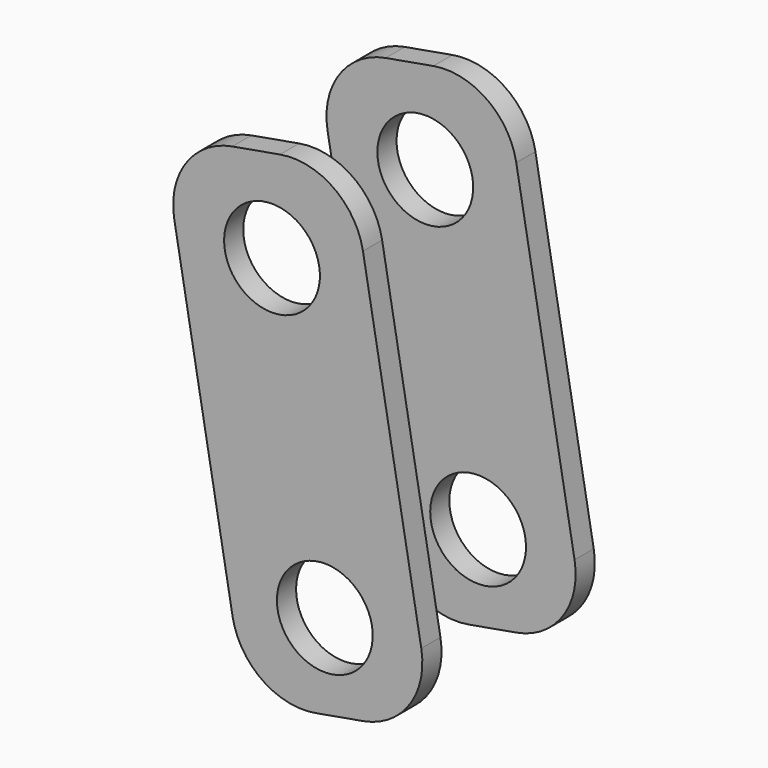
from build123d import *

# Parameters (mm, degrees)
CYLINDER661_R          = 2
CYLINDER661_DEPTH      = 10
CYLINDER661_ROLL_ANGLE = 90
CYLINDER660_R          = 2
CYLINDER660_DEPTH      = 10
CYLINDER660_ROLL_ANGLE = 90
BOX442_W               = 8
BOX442_H               = 1
BOX442_DEPTH           = 20
FILLET323_R            = 2.99
CUT562_PITCH_ANGLE     = -10
CYLINDER659_R          = 2
CYLINDER659_DEPTH      = 10
CYLINDER659_ROLL_ANGLE = 90
CYLINDER658_R          = 2
CYLINDER658_DEPTH      = 10
CYLINDER658_ROLL_ANGLE = 90
BOX441_W               = 8
BOX441_H               = 1
BOX441_DEPTH           = 20
FILLET322_R            = 2.99
CUT561_PITCH_ANGLE     = -10


with BuildPart() as cylinder784:
    # Cylinder661 → Cylinder661 (new body)
    with BuildSketch(Plane.XY):
        Circle(CYLINDER661_R)
    extrude(amount=CYLINDER661_DEPTH)


with BuildPart() as cylinder784_1:
    # Cylinder661 roll: moved
    add(cylinder784.part.rotate(Axis((0, 0, 0), (1, 0, 0)), CYLINDER661_ROLL_ANGLE))


with BuildPart() as cylinder784_2:
    # Cylinder661 placement: moved
    add(cylinder784_1.part)


with BuildPart() as fusion442:
    # Cylinder660 → Cylinder660 (new body)
    with BuildSketch(Plane.XY):
        Circle(CYLINDER660_R)
    extrude(amount=CYLINDER660_DEPTH)


with BuildPart() as fusion442_1:
    # Cylinder660 roll: moved
    add(fusion442.part.rotate(Axis((0, 0, 0), (1, 0, 0)), CYLINDER660_ROLL_ANGLE))


with BuildPart() as fusion442_2:
    # Cylinder660 placement: moved
    add(fusion442_1.part.moved(Location((0, 0, 12.7))))

    # Fusion442: union Cylinder784
    add(cylinder784_2.part)


with BuildPart() as cut852:
    # Box442 → Box442 (new body)
    with BuildSketch(Plane(origin=(-4, -1, -3.5), x_dir=(1, 0, 0), z_dir=(0, 0, 1))):
        with Locations((4, 0.5)):
            Rectangle(BOX442_W, BOX442_H)
    extrude(amount=BOX442_DEPTH)

    # Fillet323
    fillet323_edges = [cut852.edges().sort_by_distance(p)[0] for p in [
        (-4, -0.5, 16.5),
        (-4, -0.5, -3.5),
        (4, -0.5, 16.5),
        (4, -0.5, -3.5),
    ]]
    fillet(fillet323_edges, radius=FILLET323_R)

    # Cut562: cut Fusion442
    add(fusion442_2.part, mode=Mode.SUBTRACT)


with BuildPart() as cut852_1:
    # Cut562 pitch: moved
    add(cut852.part.rotate(Axis((0, 0, 0), (0, 1, 0)), CUT562_PITCH_ANGLE))


with BuildPart() as cut852_2:
    # Cut562 placement: moved
    add(cut852_1.part.moved(Location((150, 50, -27))))


with BuildPart() as cylinder712:
    # Cylinder659 → Cylinder659 (new body)
    with BuildSketch(Plane.XY):
        Circle(CYLINDER659_R)
    extrude(amount=CYLINDER659_DEPTH)


with BuildPart() as cylinder712_1:
    # Cylinder659 roll: moved
    add(cylinder712.part.rotate(Axis((0, 0, 0), (1, 0, 0)), CYLINDER659_ROLL_ANGLE))


with BuildPart() as cylinder712_2:
    # Cylinder659 placement: moved
    add(cylinder712_1.part)


with BuildPart() as fusion441:
    # Cylinder658 → Cylinder658 (new body)
    with BuildSketch(Plane.XY):
        Circle(CYLINDER658_R)
    extrude(amount=CYLINDER658_DEPTH)


with BuildPart() as fusion441_1:
    # Cylinder658 roll: moved
    add(fusion441.part.rotate(Axis((0, 0, 0), (1, 0, 0)), CYLINDER658_ROLL_ANGLE))


with BuildPart() as fusion441_2:
    # Cylinder658 placement: moved
    add(fusion441_1.part.moved(Location((0, 0, 12.7))))

    # Fusion441: union Cylinder712
    add(cylinder712_2.part)


with BuildPart() as obj1:
    # Box441 → Box441 (new body)
    with BuildSketch(Plane(origin=(-4, -1, -3.5), x_dir=(1, 0, 0), z_dir=(0, 0, 1))):
        with Locations((4, 0.5)):
            Rectangle(BOX441_W, BOX441_H)
    extrude(amount=BOX441_DEPTH)

    # Fillet322
    fillet322_edges = [obj1.edges().sort_by_distance(p)[0] for p in [
        (-4, -0.5, 16.5),
        (-4, -0.5, -3.5),
        (4, -0.5, 16.5),
        (4, -0.5, -3.5),
    ]]
    fillet(fillet322_edges, radius=FILLET322_R)

    # Cut561: cut Fusion441
    add(fusion441_2.part, mode=Mode.SUBTRACT)


with BuildPart() as obj1_1:
    # Cut561 pitch: moved
    add(obj1.part.rotate(Axis((0, 0, 0), (0, 1, 0)), CUT561_PITCH_ANGLE))


with BuildPart() as obj1_2:
    # Cut561 placement: moved
    add(obj1_1.part.moved(Location((150, 42, -27))))

    # Fusion440: union Cut852
    add(cut852_2.part)


with BuildPart() as obj1_3:
    # Fusion440 placement: moved
    add(obj1_2.part.moved(Location((0.5, 79, 1))))


solid = obj1_3.part
